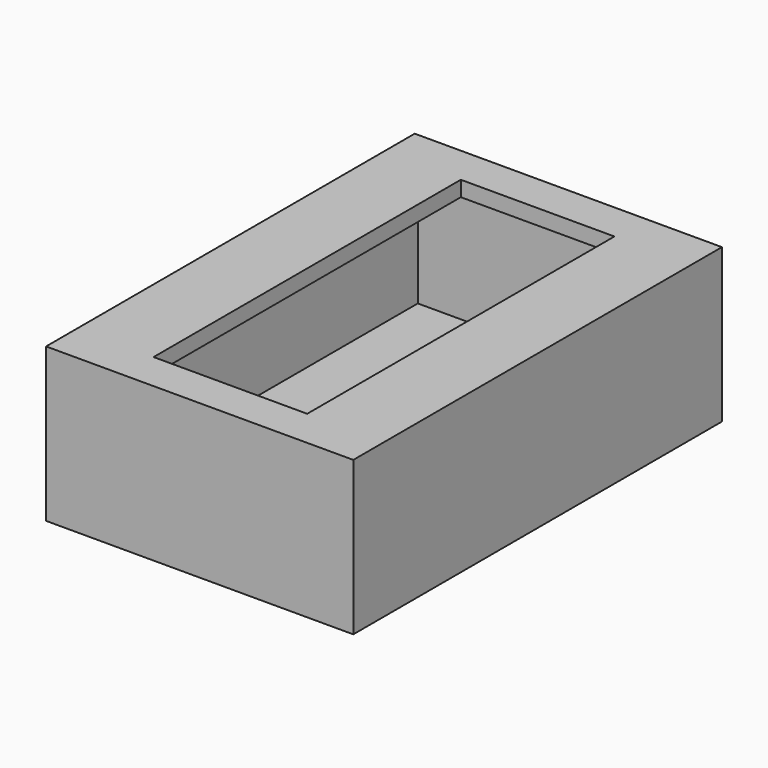
from build123d import *

# Parameters (mm, degrees)
F0_W     = 50.8
F0_H     = 76.2
F1_DEPTH = 25.4
F2_W     = 25.4
F2_H     = 63.5
F3_DEPTH = 12.7
F4_T     = -2.54


with BuildPart() as f1:
    # F0 (on Top) → F1 (new body)
    with BuildSketch(Plane.XY):
        Rectangle(F0_W, F0_H)
    extrude(amount=F1_DEPTH)

    # F2 (on face) → F3 (cut)
    with BuildSketch(Plane.XY.offset(25.4)):
        Rectangle(F2_W, F2_H)
    extrude(amount=-F3_DEPTH, mode=Mode.SUBTRACT)

    # F4
    f4_openings = [f1.faces().sort_by_distance(p)[0] for p in [
        (-12.7, 0, 19.05),
        (0, 0, 12.7),
        (0, 31.75, 19.05),
        (12.7, 0, 19.05),
        (0, -31.75, 19.05),
    ]]
    offset(amount=F4_T, openings=f4_openings)


solid = f1.part
